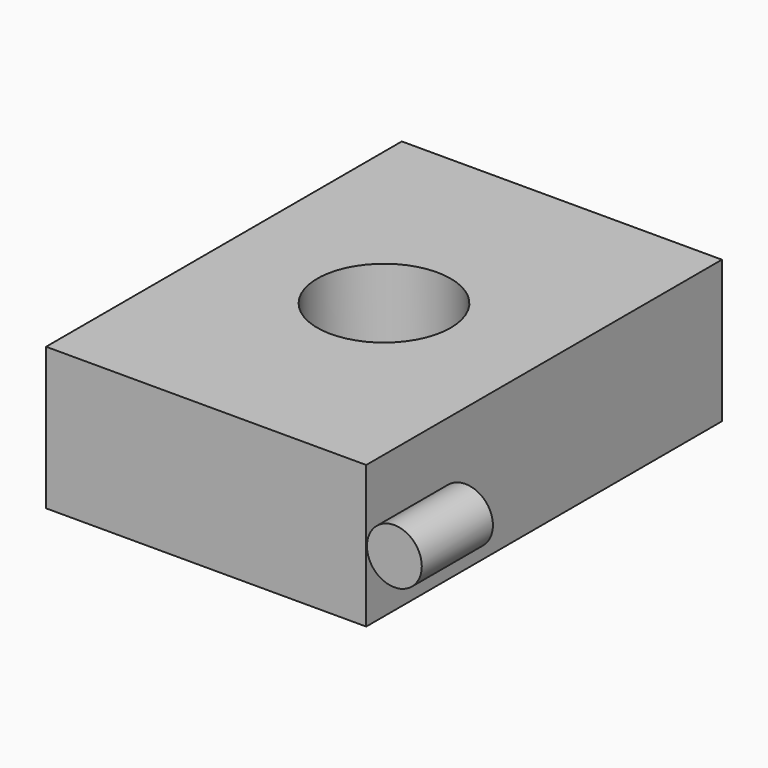
from build123d import *

# Parameters (mm, degrees)
F0_W     = 180
F0_H     = 80
F1_DEPTH = 125
F2_R     = 37.5
F3_DEPTH = 100
F5_R     = 15.415379
F6_DEPTH = 50


with BuildPart() as f1:
    # F0 (on Front) → F1 (new body, symmetric)
    with BuildSketch(Plane.XZ):
        Rectangle(F0_W, F0_H)
    extrude(amount=F1_DEPTH, both=True)

    # F2 (on face) → F3 (cut)
    with BuildSketch(Plane.XY.offset(40)):
        Circle(F2_R)
    extrude(amount=-F3_DEPTH, mode=Mode.SUBTRACT)


with BuildPart() as f6:
    # F5 (on offset) → F6 (new body)
    with BuildSketch(Plane.XZ.offset(125)):
        with Locations((105.830133, 0)):
            Circle(F5_R)
    extrude(amount=-F6_DEPTH)


solid = Compound([f1.part, f6.part])
